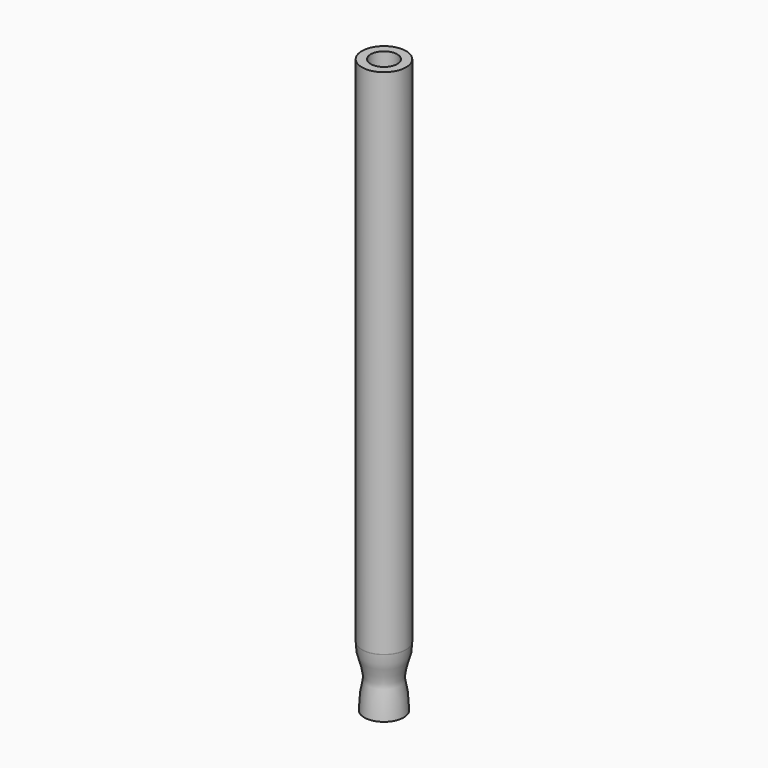
from build123d import *


with BuildPart() as f1:
    # F0 (on Front) → F1 (revolve)
    with BuildSketch(Plane.XZ):
        with BuildLine():
            add(Edge.make_bspline(
                [(-15, -104.2034150791), (-15, -114.4158663694), (4.069168266, -124.329273141), (-17.2318516587, -141.4143233985), (-17.2600828232, -159.7222550549), (-17.2600828232, -172.8578283503)],
                knots=[0, 0, 0, 0, 0.3293577477, 0.6169019702, 1, 1, 1, 1], degree=3))
            Line((-15, -104.2034150791), (-15, 475.7965849209))
            Line((-15, 475.7965849209), (-25, 475.7965849209))
            Line((-25, 475.7965849209), (-25, -104.2034150791))
            Line((-25, -104.2034150791), (-24.9974876642, -104.4825538993))
            add(Edge.make_bspline(
                [(-24.9974876642, -104.4825538993), (-24.9974876642, -112.9283330981), (-23.3487456599, -117.5576533306), (-15.5389893803, -143.5658660005), (-22.2631056289, -149.9773947916), (-22.2631056289, -172.8578283503)],
                knots=[0, 0, 0, 0, 0.2757337817, 0.5863430752, 1, 1, 1, 1], degree=3))
            Line((-22.2631056289, -172.8578283503), (-17.2600828232, -172.8578283503))
        make_face()
    revolve(axis=Axis((0, 0, 176.5641533278), (0, 0, 1)))


solid = f1.part
